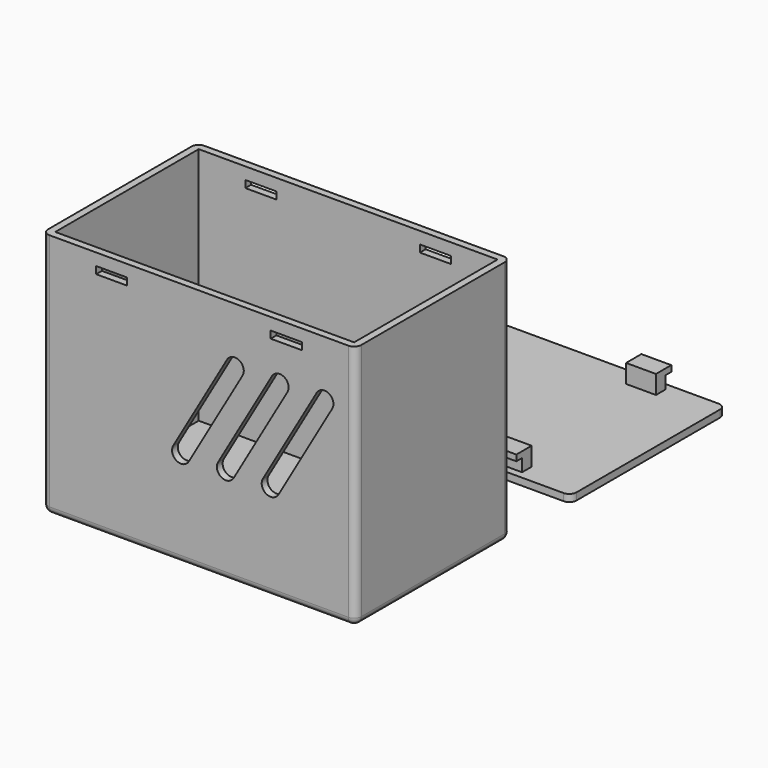
from build123d import *

# Parameters (mm, degrees)
SKETCH_W                = 50
SKETCH_H                = 30
PAD_DEPTH               = 40
THICKNESS_T             = 1.2
SKETCH001_R             = 3.5
POCKET_DEPTH            = 41.201
SKETCH002_R             = 3
POCKET001_DEPTH         = 2
POCKET002_DEPTH         = 5
LINEARPATTERN_COUNT     = 3
LINEARPATTERN_PITCH     = 7.5
SKETCH004_W             = 5.2
SKETCH004_H             = 1.2
POCKET003_DEPTH         = 180.630012
SKETCH006_W             = 52.4
SKETCH006_H             = 32.4
PAD001_DEPTH            = 1.2
FILLET_R                = 1.2
SKETCH007_W             = 5
SKETCH007_H             = 2
PAD002_DEPTH            = 3.1
SKETCH008_W             = 5
SKETCH008_H             = 1
PAD003_DEPTH            = 1.2
POLARPATTERN_COUNT      = 2
BODY001_PLACEMENT_ANGLE = 180


with BuildPart() as caja:
    # Sketch → Pad (new body)
    with BuildSketch(Plane.XY):
        Rectangle(SKETCH_W, SKETCH_H)
    extrude(amount=PAD_DEPTH)

    # Thickness
    thickness_openings = [caja.faces().sort_by_distance(p)[0] for p in [
        (0, 0, 40),
    ]]
    offset(amount=THICKNESS_T, openings=thickness_openings)

    # Sketch001 (on Face16 of Thickness) → Pocket (cut, through all)
    with BuildSketch(Plane(origin=(0, 0, -1.2), x_dir=(1, 0, 0), z_dir=(0, 0, -1))):
        with Locations((6, 2.5)):
            Circle(SKETCH001_R)
    extrude(amount=-POCKET_DEPTH, mode=Mode.SUBTRACT)

    # Sketch002 (on Face9 of Pocket) → Pocket001 (cut)
    with BuildSketch(Plane(origin=(-26.2, 0, 0), x_dir=(0, -1, 0), z_dir=(-1, 0, 0))):
        with Locations((5, 12)):
            Circle(SKETCH002_R)
        with Locations((5, 25)):
            Circle(SKETCH002_R)
    extrude(amount=-POCKET001_DEPTH, mode=Mode.SUBTRACT)

    # Sketch003 (on Face17 of Pocket001) → Pocket002 (cut)
    with BuildSketch(Plane.XZ.offset(16.2)):
        with BuildLine():
            ThreePointArc((10.700962, 15.75), (11.25, 13.700962), (13.299038, 14.25))
            Line((13.299038, 14.25), (22.299038, 29.838457))
            ThreePointArc((22.299038, 29.838457), (21.75, 31.887495), (19.700962, 31.338457))
            Line((10.700962, 15.75), (19.700962, 31.338457))
        make_face()
    pocket002 = extrude(amount=-POCKET002_DEPTH, mode=Mode.SUBTRACT)

    # LinearPattern: Pocket002 ×3
    with Locations(*[(-i * LINEARPATTERN_PITCH, 0, 0) for i in range(1, LINEARPATTERN_COUNT)]):
        add(pocket002, mode=Mode.SUBTRACT)

    # Sketch004 (on Face17 of LinearPattern) → Pocket003 (cut, through all)
    with BuildSketch(Plane.XZ.offset(16.2)):
        with Locations((-14.6, 37.4)):
            Rectangle(SKETCH004_W, SKETCH004_H)
    pocket003 = extrude(amount=-POCKET003_DEPTH, mode=Mode.SUBTRACT)

    # Mirrored: Pocket003 across Sketch004 V_Axis
    add(pocket003.mirror(Plane(origin=(0, -16.2, 0), x_dir=(0, -1, 0), z_dir=(1, 0, 0))), mode=Mode.SUBTRACT)


with BuildPart() as tapa:
    # Sketch006 → Pad001 (new body)
    with BuildSketch(Plane.XY.offset(45)):
        Rectangle(SKETCH006_W, SKETCH006_H)
    extrude(amount=-PAD001_DEPTH)

    # Fillet
    fillet_edges = [tapa.edges().sort_by_distance(p)[0] for p in [
        (-26.2, -16.2, 44.4),
        (-26.2, 16.2, 44.4),
        (26.2, 16.2, 44.4),
        (26.2, -16.2, 44.4),
    ]]
    fillet(fillet_edges, radius=FILLET_R)

    # Sketch007 (on Face5 of Fillet) → Pad002 (join)
    with BuildSketch(Plane(origin=(0, 0, 43.8), x_dir=(1, 0, 0), z_dir=(0, 0, -1))):
        with Locations((-14.6, 14)):
            Rectangle(SKETCH007_W, SKETCH007_H)
        with Locations((14.6, 14)):
            Rectangle(SKETCH007_W, SKETCH007_H)
        with Locations((-14.6, -14)):
            Rectangle(SKETCH007_W, SKETCH007_H)
        with Locations((14.6, -14)):
            Rectangle(SKETCH007_W, SKETCH007_H)
    extrude(amount=PAD002_DEPTH)

    # Sketch008 (on Face22 of Pad002) → Pad003 (join)
    with BuildSketch(Plane.XZ.offset(15)):
        with Locations((-14.6, 41.2)):
            Rectangle(SKETCH008_W, SKETCH008_H)
    pad003 = extrude(amount=PAD003_DEPTH)

    # PolarPattern: Pad003 ×2 about axis
    polarpattern_axis = Axis((0, 0, 0), (0, 0, 1))
    for i in range(1, POLARPATTERN_COUNT):
        add(pad003.rotate(polarpattern_axis, i * 360 / POLARPATTERN_COUNT))

    # Mirrored001: Pad003 across XZ
    add(pad003.mirror(Plane.XZ))

    # Mirrored002: Pad003 across Sketch008 V_Axis
    add(pad003.mirror(Plane(origin=(0, -15, 0), x_dir=(0, -1, 0), z_dir=(1, 0, 0))))


with BuildPart() as tapa_1:
    # Body001 placement: moved
    add(tapa.part.moved(Location((0, 45, 43.8))).rotate(Axis((0, 45, 43.8), (0, 1, 0)), BODY001_PLACEMENT_ANGLE))


solid = Compound([caja.part, tapa_1.part])
